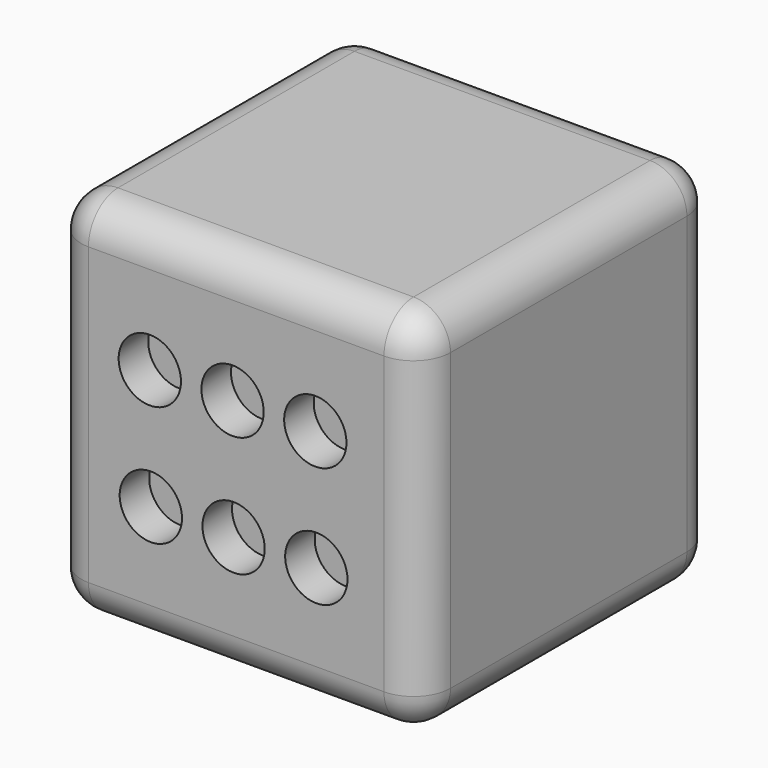
from build123d import *

# Parameters (mm, degrees)
F0_W     = 50
F0_H     = 50
F1_DEPTH = 50
F2_R     = 5
F3_R     = 4.215568
F4_DEPTH = 5
F5_R     = 4.215568
F6_DEPTH = 5
F7_R     = 4.1557
F8_DEPTH = 5


with BuildPart() as f1:
    # F0 (on Top) → F1 (new body)
    with BuildSketch(Plane.XY):
        with Locations((25, 25)):
            Rectangle(F0_W, F0_H)
    extrude(amount=F1_DEPTH)

    # F2
    f2_edges = [f1.edges().sort_by_distance(p)[0] for p in [
        (25, 0, 50),
        (50, 0, 25),
        (25, 0, 0),
        (0, 0, 25),
        (0, 25, 50),
        (0, 50, 25),
        (0, 25, 0),
        (25, 50, 50),
        (50, 25, 50),
        (50, 50, 25),
        (25, 50, 0),
        (50, 25, 0),
    ]]
    fillet(f2_edges, radius=F2_R)

    # F3 (on face) → F4 (cut)
    with BuildSketch(Plane.XZ):
        with Locations((13.303663, 33.014465)):
            Circle(F3_R)
        with Locations((24.503663, 33.014465)):
            Circle(F3_R)
        with Locations((35.703663, 33.014465)):
            Circle(F3_R)
        with Locations((13.440982, 16.774133)):
            Circle(F3_R)
        with Locations((24.640982, 16.774133)):
            Circle(F3_R)
        with Locations((35.840982, 16.774133)):
            Circle(F3_R)
    extrude(amount=-F4_DEPTH, mode=Mode.SUBTRACT)

    # F5 (on face) → F6 (cut)
    with BuildSketch(Plane(origin=(0, 0, 0), x_dir=(0, -1, 0), z_dir=(-1, 0, 0))):
        with Locations((-36.712744, 33.377577)):
            Circle(F5_R)
        with Locations((-25.512744, 33.377577)):
            Circle(F5_R)
        with Locations((-14.312744, 33.377577)):
            Circle(F5_R)
        with Locations((-32.08404, 17.225714)):
            Circle(F5_R)
        with Locations((-19.062114, 17.338414)):
            Circle(F5_R)
    extrude(amount=-F6_DEPTH, mode=Mode.SUBTRACT)

    # F7 (on face) → F8 (cut)
    with BuildSketch(Plane(origin=(0, 50, 0), x_dir=(-1, 0, 0), z_dir=(0, 1, 0))):
        with Locations((-12.061181, 16.614642)):
            Circle(F7_R)
        with Locations((-37.061181, 16.614642)):
            Circle(F7_R)
        with Locations((-12.061181, 33.114642)):
            Circle(F7_R)
        with Locations((-37.061181, 33.114642)):
            Circle(F7_R)
    extrude(amount=-F8_DEPTH, mode=Mode.SUBTRACT)


solid = f1.part
